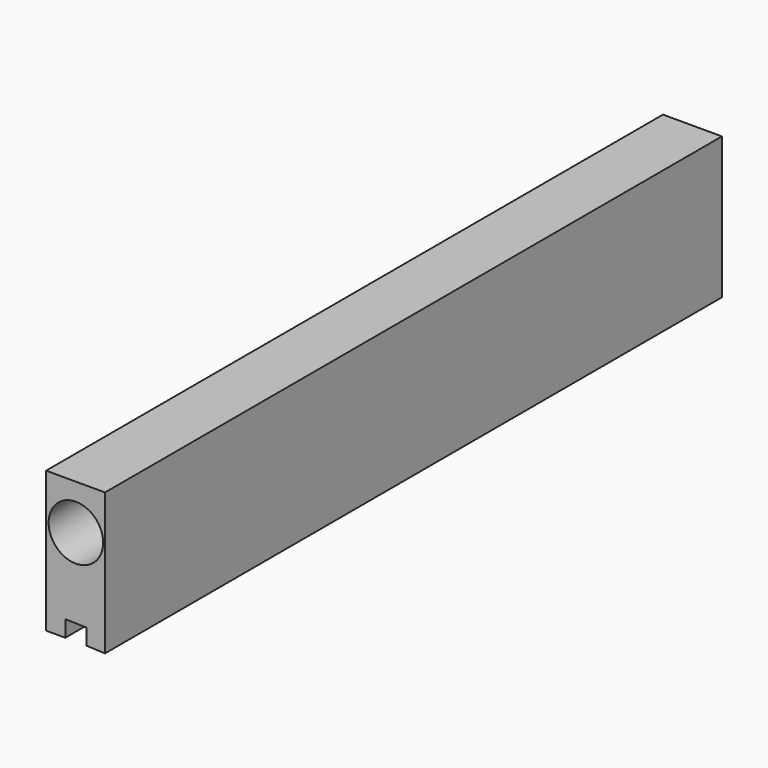
from build123d import *

# Parameters (mm, degrees)
F0_W     = 76.464056
F0_H     = 115.89399
F0_R     = 35.376102
F1_DEPTH = 1000
F2_DEPTH = 600


with BuildPart() as f1:
    # F0 (on Front) → F1 (new body)
    with BuildSketch(Plane.XZ):
        Rectangle(F0_W, F0_H)
        with Locations((0.415236, -0.324309)):
            Circle(F0_R, mode=Mode.SUBTRACT)
        Polygon((38.232028, -125.84649), (38.232028, -57.946995), (-38.232028, -57.946995), (-38.232028, -124.745652), (-13.313413, -124.745652), (-13.313413, -103.494123), (14.12918, -104.132757), (14.12918, -124.888524), align=None)
    extrude(amount=F1_DEPTH)

    # F0 (on Front) → F2 (join)
    with BuildSketch(Plane.XZ):
        Rectangle(F0_W, F0_H)
        with Locations((0.415236, -0.324309)):
            Circle(F0_R, mode=Mode.SUBTRACT)
        Polygon((38.232028, -125.84649), (38.232028, -57.946995), (-38.232028, -57.946995), (-38.232028, -124.745652), (-13.313413, -124.745652), (-13.313413, -103.494123), (14.12918, -104.132757), (14.12918, -124.888524), align=None)
    extrude(amount=F2_DEPTH)


solid = f1.part
